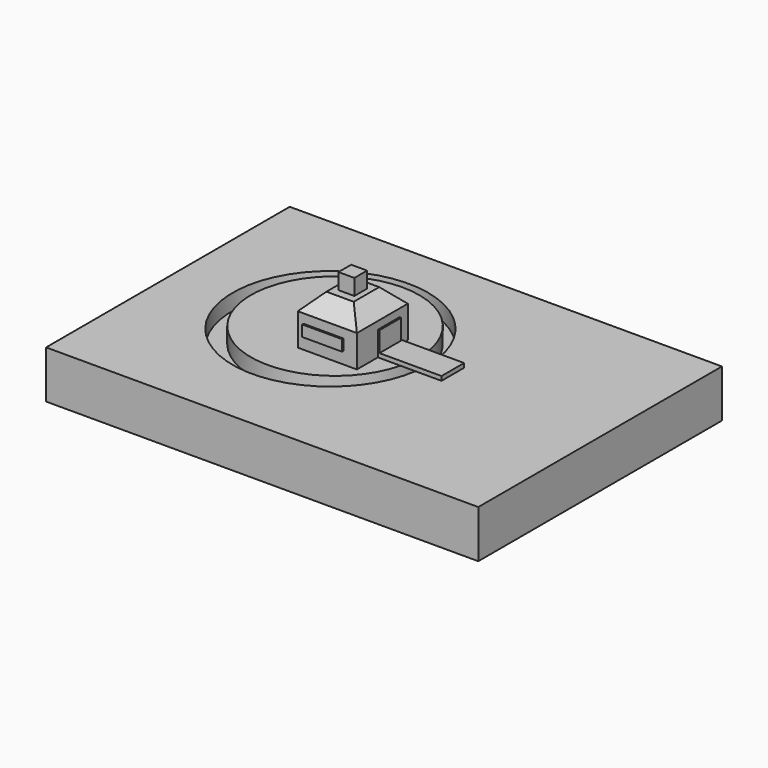
from build123d import *

# Parameters (mm, degrees)
F0_W      = 94.4209545851
F0_H      = 76.6059160233
F1_DEPTH  = 101.6
F2_SIZE   = 25.4
F3_W      = 25.4
F3_H      = 25.4
F4_DEPTH  = 25.4
F6_W      = 45.1313219965
F6_H      = 6.7916600965
F7_DEPTH  = 101.6
F5_W      = 63.737494871
F5_H      = 17.642442137
F8_DEPTH  = 2.54
F9_W      = 43.406561017
F9_H      = 32.155352179
F10_DEPTH = 2.54
F11_W     = 690.3821974993
F11_H     = 486.4143431187
F12_DEPTH = 76.2
F14_R     = 156.1146532665
F15_DEPTH = 25.4
F16_R     = 134.4660155787
F17_DEPTH = 25.4


with BuildPart() as f1:
    # F0 (on Front) → F1 (new body)
    with BuildSketch(Plane.XZ):
        with Locations((47.2104772925, 38.3029580116)):
            Rectangle(F0_W, F0_H)
    extrude(amount=F1_DEPTH)

    # F2
    f2_edges = [f1.edges().sort_by_distance(p)[0] for p in [
        (94.420955, -50.8, 76.605916),
        (0, -50.8, 76.605916),
        (47.210477, 0, 76.605916),
        (47.210477, -101.6, 76.605916),
    ]]
    chamfer(f2_edges, length=F2_SIZE)

    # F3 (on face) → F4 (join)
    with BuildSketch(Plane.XY.offset(76.6059160233)):
        with Locations((47.1932, -50.8)):
            Rectangle(F3_W, F3_H)
    extrude(amount=F4_DEPTH)

    # F6 (on face) → F7 (join)
    with BuildSketch(Plane.YZ.offset(94.4209545851)):
        with Locations((-37.1608156711, 3.3958300482)):
            Rectangle(F6_W, F6_H)
    extrude(amount=F7_DEPTH)

    # F5 (on face) → F8 (join)
    with BuildSketch(Plane.XZ.offset(101.6)):
        with Locations((41.0035112873, 27.7578178793)):
            Rectangle(F5_W, F5_H)
    extrude(amount=F8_DEPTH)

    # F9 (on face) → F10 (join)
    with BuildSketch(Plane.YZ.offset(94.4209545851)):
        with Locations((-38.0231961608, 22.869336186)):
            Rectangle(F9_W, F9_H)
    extrude(amount=F10_DEPTH)

    # F11 (on face) → F12 (join)
    with BuildSketch(Plane(origin=(0, 0, 0), x_dir=(1, 0, 0), z_dir=(0, 0, -1))):
        with Locations((99.6137782931, 53.9849847555)):
            Rectangle(F11_W, F11_H)
        Polygon((0, 0), (0, 101.6), (94.4209545851, 101.6), (94.4209545851, 59.7264766693), (196.0209545851, 59.7264766693), (196.0209545851, 14.5951546729), (94.4209545851, 14.5951546729), (94.4209545851, 0), align=None, mode=Mode.SUBTRACT)
        Polygon((94.4209545851, 101.6), (0, 101.6), (0, 0), (94.4209545851, 0), (94.4209545851, 14.5951546729), (196.0209545851, 14.5951546729), (196.0209545851, 59.7264766693), (94.4209545851, 59.7264766693), align=None)
    extrude(amount=F12_DEPTH)

    # F14 (on face) → F15 (cut)
    with BuildSketch(Plane.XY):
        with Locations((0, -36.4867895842)):
            Circle(F14_R)
    extrude(amount=-F15_DEPTH, mode=Mode.SUBTRACT)

    # F16 (on face) → F17 (join, through all)
    with BuildSketch(Plane.XY):
        with Locations((0, -27.1963328123)):
            Circle(F16_R)
    extrude(amount=-F17_DEPTH)


solid = f1.part
